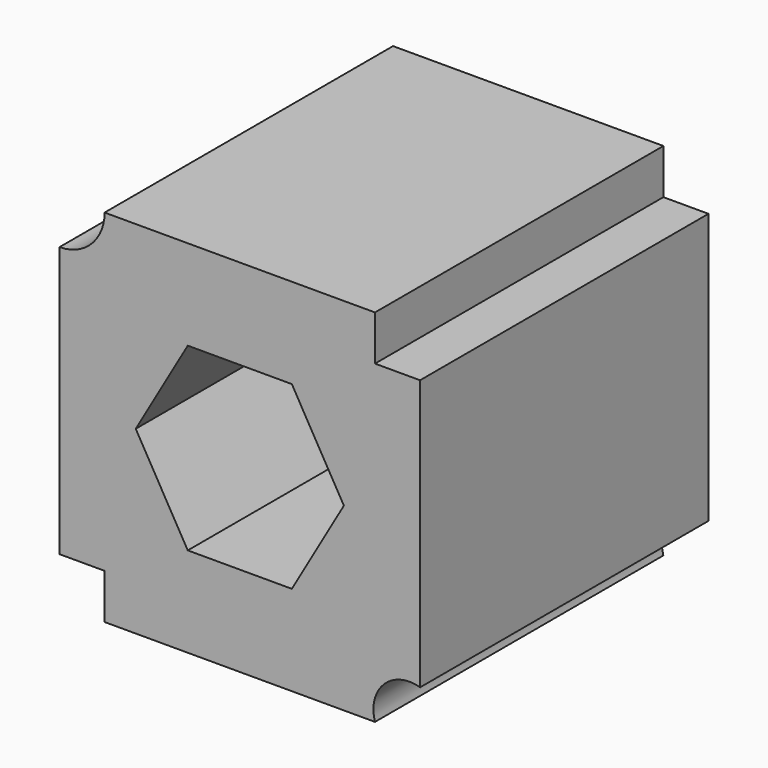
from build123d import *

# Parameters (mm, degrees)
F1_DEPTH = 25.4


with BuildPart() as f1:
    # F0 (on Front) → F1 (new body)
    with BuildSketch(Plane.XZ):
        with BuildLine():
            Line((9.525, 9.525), (9.525, 12.7))
            Line((9.525, 12.7), (-9.525, 12.7))
            ThreePointArc((-9.525, 12.7), (-10.454936, 10.454936), (-12.7, 9.525))
            Line((-12.7, 9.525), (-12.7, -9.525))
            Line((-12.7, -9.525), (-9.525, -9.525))
            Line((-9.525, -9.525), (-9.525, -12.7))
            Line((-9.525, -12.7), (9.525, -12.7))
            ThreePointArc((9.525, -12.7), (10.156475, -10.156475), (12.7, -9.525))
            Line((12.7, -9.525), (12.7, 9.525))
            Line((12.7, 9.525), (9.525, 9.525))
        make_face()
        Polygon((-3.666174, 6.35), (3.666174, 6.35), (7.332348, 0), (3.666174, -6.35), (-3.666174, -6.35), (-7.332348, 0), align=None, mode=Mode.SUBTRACT)
    extrude(amount=F1_DEPTH)


solid = f1.part
